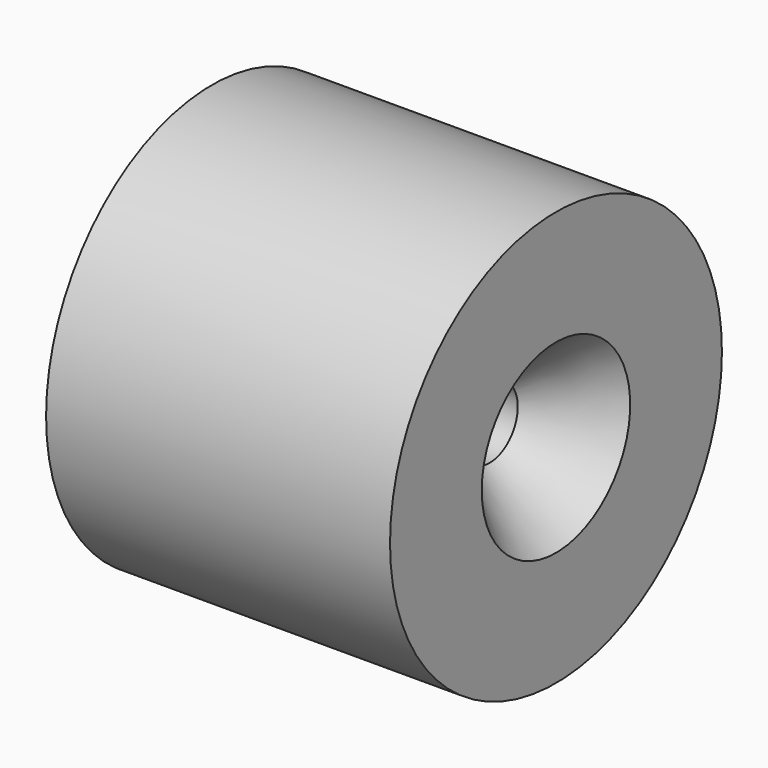
from build123d import *

# Parameters (mm, degrees)
F0_R           = 15.0775348958
F1_DEPTH       = 25
F3_D           = 5.1054
F3_CSINK_D     = 13.4874
F3_CSINK_ANGLE = 82


with BuildPart() as f1:
    # F0 (on Right) → F1 (new body)
    with BuildSketch(Plane.YZ):
        with Locations((28.8916006684, 29.0377419442)):
            Circle(F0_R)
    extrude(amount=F1_DEPTH)

    # F3 (through all)
    with Locations(Plane.YZ.offset(25)):
        with Locations((28.8916006684, 29.0377419442)):
            CounterSinkHole(F3_D / 2, F3_CSINK_D / 2, counter_sink_angle=F3_CSINK_ANGLE)


solid = f1.part
